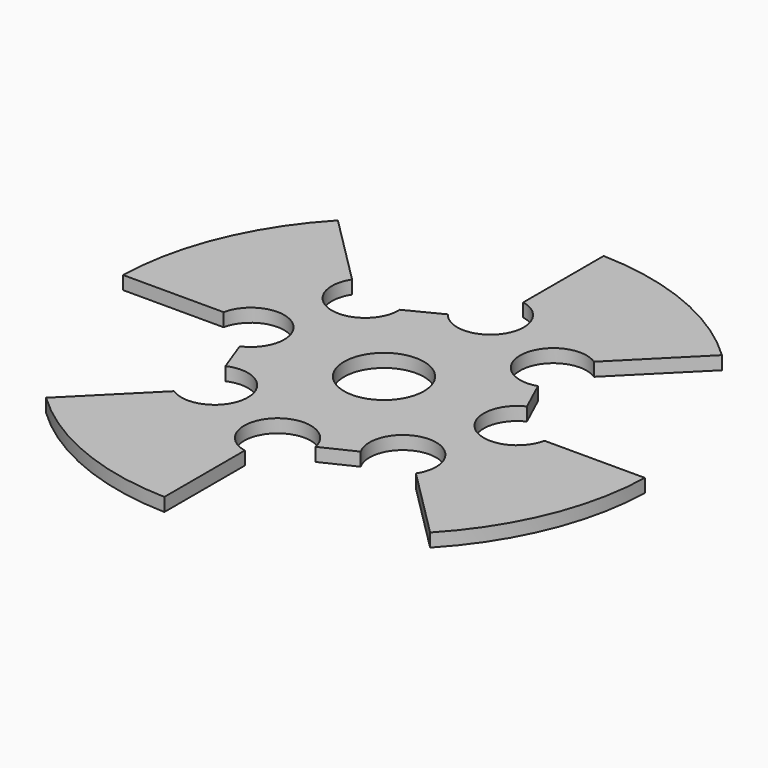
from build123d import *

# Parameters (mm, degrees)
F0_R     = 3
F1_DEPTH = 1


with BuildPart() as f1:
    # F0 (on Top) → F1 (new body)
    with BuildSketch(Plane.XY):
        with BuildLine():
            ThreePointArc((14.491269, -13.784162), (18.477591, -7.653669), (19.993749, -0.5))
            Line((19.993749, -0.5), (12.443239, -0.5))
            ThreePointArc((12.443239, -0.5), (8.450707, -1.966982), (8.924937, 2.260009))
            Line((8.924937, 2.260009), (7.814871, 4.681242))
            ThreePointArc((7.814871, 4.681242), (4.591124, 7.41562), (8.445145, 9.152252))
            Line((8.445145, 9.152252), (13.784162, 14.491269))
            ThreePointArc((13.784162, 14.491269), (7.653669, 18.477591), (0.5, 19.993749))
            Line((0.5, 19.993749), (0.5, 12.443239))
            ThreePointArc((0.5, 12.443239), (2.111531, 8.655304), (-2.001884, 8.496265))
            Line((-2.001884, 8.496265), (-4.569773, 7.19161))
            ThreePointArc((-4.569773, 7.19161), (-7.726287, 4.655242), (-9.152252, 8.445145))
            Line((-9.152252, 8.445145), (-14.491269, 13.784162))
            ThreePointArc((-14.491269, 13.784162), (-18.477591, 7.653669), (-19.993749, 0.5))
            Line((-19.993749, 0.5), (-12.443239, 0.5))
            ThreePointArc((-12.443239, 0.5), (-8.418362, 1.941174), (-9.000323, -2.294146))
            Line((-9.000323, -2.294146), (-8.081482, -4.781892))
            ThreePointArc((-8.081482, -4.781892), (-4.575258, -7.273959), (-8.445145, -9.152252))
            Line((-8.445145, -9.152252), (-13.784162, -14.491269))
            ThreePointArc((-13.784162, -14.491269), (-7.653669, -18.477591), (-0.5, -19.993749))
            Line((-0.5, -19.993749), (-0.5, -12.443239))
            ThreePointArc((-0.5, -12.443239), (-1.769645, -8.227862), (2.448421, -9.488543))
            Line((2.448421, -9.488543), (4.89789, -8.310227))
            ThreePointArc((4.89789, -8.310227), (7.14589, -4.567904), (9.152252, -8.445145))
            Line((9.152252, -8.445145), (14.491269, -13.784162))
        make_face()
        Circle(F0_R, mode=Mode.SUBTRACT)
    extrude(amount=F1_DEPTH)


solid = f1.part
